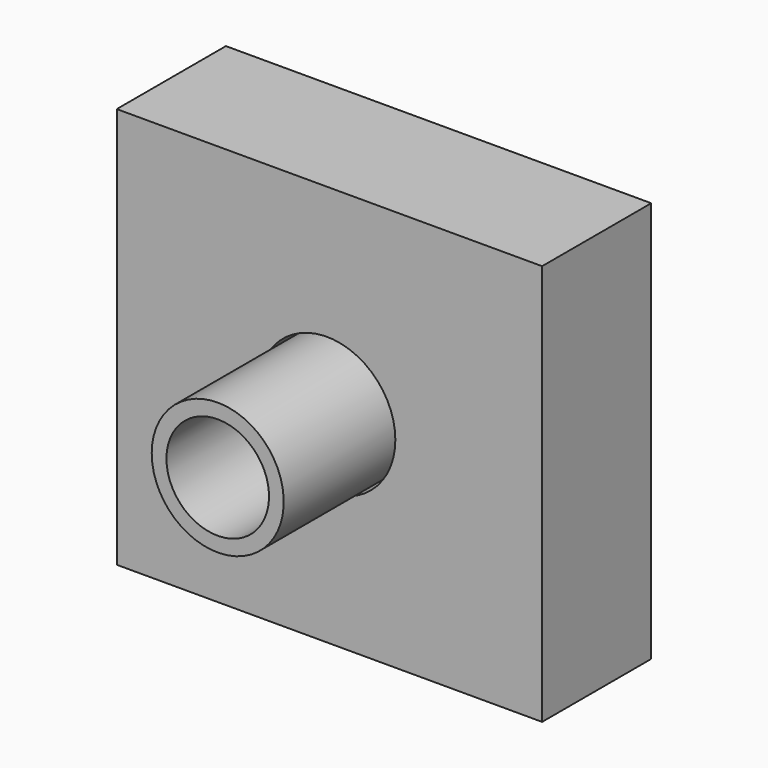
from build123d import *

# Parameters (mm, degrees)
F0_W     = 118.810031563
F0_H     = 112.0622009039
F0_R     = 25.5981657893
F0_R_2   = 19.1321000997
F1_DEPTH = 38.1
F2_R     = 18.4380627175
F2_R_2   = 14.3268495372
F3_DEPTH = 76.2


with BuildPart() as f1:
    # F0 (on Front) → F1 (new body)
    with BuildSketch(Plane.XZ):
        with Locations((0.722983852, 0)):
            Rectangle(F0_W, F0_H)
        Circle(F0_R, mode=Mode.SUBTRACT)
        Circle(F0_R)
        Circle(F0_R_2, mode=Mode.SUBTRACT)
    extrude(amount=F1_DEPTH)


with BuildPart() as f3:
    # F2 (on face) → F3 (new body)
    with BuildSketch(Plane(origin=(0, 0, 0), x_dir=(-1, 0, 0), z_dir=(0, 1, 0))):
        Circle(F2_R)
        Circle(F2_R_2, mode=Mode.SUBTRACT)
    extrude(amount=-F3_DEPTH)


solid = Compound([f1.part, f3.part])
